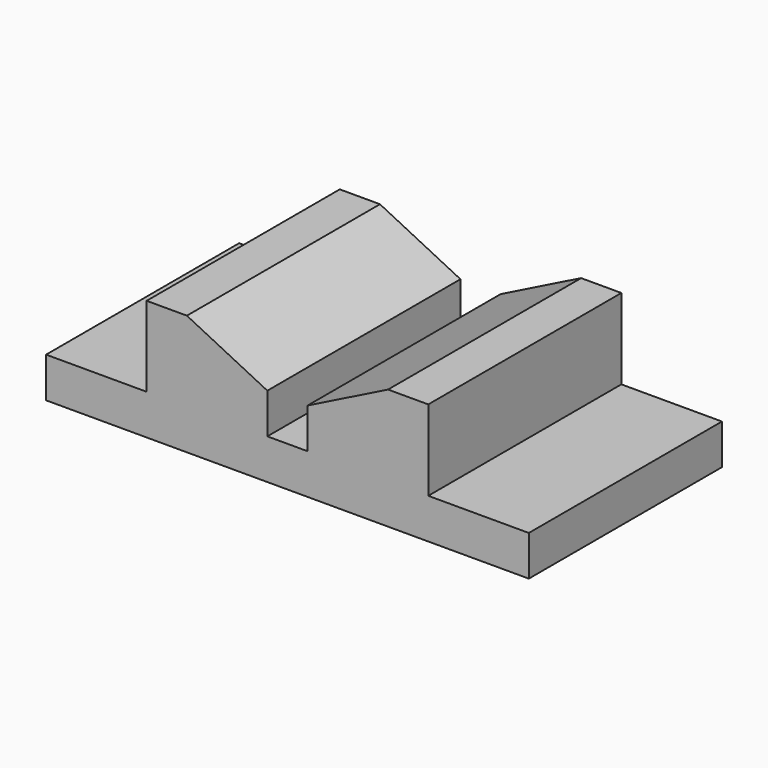
from build123d import *

# Parameters (mm, degrees)
F1_DEPTH = 76.2


with BuildPart() as f1:
    # F0 (on Front) → F1 (new body)
    with BuildSketch(Plane.XZ):
        Polygon((6.35, -63.050448), (44.45, -63.050448), (44.45, -37.650448), (31.75, -37.650448), (6.35, -50.350448), align=None)
        Polygon((-44.45, -37.766395), (-44.45, -63.050448), (-6.35, -63.050448), (-6.35, -50.350448), (-31.75, -37.766395), align=None)
        Polygon((-76.2, -75.750448), (0, -75.750448), (76.2, -75.750448), (76.2, -63.050448), (44.45, -63.050448), (6.35, -63.050448), (-6.35, -63.050448), (-44.45, -63.050448), (-76.2, -63.050448), align=None)
    extrude(amount=-F1_DEPTH)


solid = f1.part
